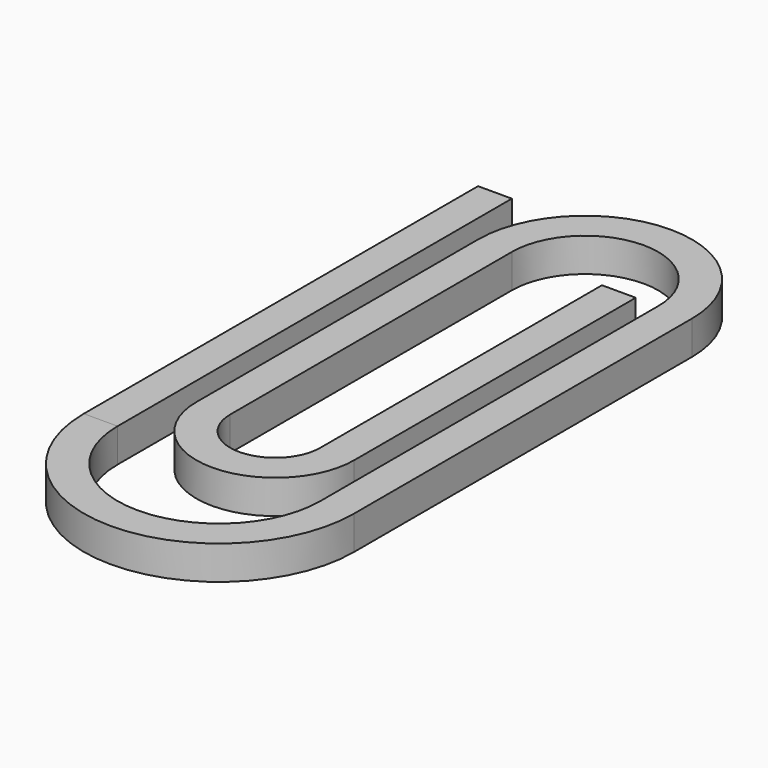
from build123d import *

# Parameters (mm, degrees)
F0_W      = 2.4
F0_H      = 2.4
F1_DEPTH  = 35
F2_W      = 2.4
F2_H      = 1.2
F3_ANGLE  = 180
F4_DEPTH  = 30
F5_W      = 2.4
F5_H      = 1.2
F6_ANGLE  = 180
F7_DEPTH  = 25
F8_W      = 2.4
F8_H      = 2.4
F9_ANGLE  = 180
F10_DEPTH = 25


with BuildPart() as f1:
    # F0 (on Front) → F1 (new body)
    with BuildSketch(Plane.XZ):
        with Locations((-30.2715206623, 1.2)):
            Rectangle(F0_W, F0_H)
    extrude(amount=F1_DEPTH)


with BuildPart() as f3:
    # F2 (on face) → F3 (revolve)
    with BuildSketch(Plane.XZ.offset(35)):
        with Locations((-30.2715206623, 1.8)):
            Rectangle(F2_W, F2_H)
        with Locations((-30.2715206623, 0.6)):
            Rectangle(F2_W, F2_H)
    revolve(axis=Axis((-21.8715206623, -35, 0.6), (0, 0, 1)), revolution_arc=F3_ANGLE)

    # F4 (add): a face of the model
    f4_faces = [f3.faces().sort_by_distance(p)[0] for p in [
        (-13.4715206623, -35, 1.2),
    ]]
    extrude(f4_faces, amount=F4_DEPTH)

    # F5 (on face) → F6 (revolve)
    with BuildSketch(Plane(origin=(0, -5, 0), x_dir=(-1, 0, 0), z_dir=(0, 1, 0))):
        with Locations((13.4715206623, 1.8)):
            Rectangle(F5_W, F5_H)
        with Locations((13.4715206623, 0.6)):
            Rectangle(F5_W, F5_H)
    revolve(axis=Axis((-19.8715206623, -5, 0.6), (0, 0, 1)), revolution_arc=F6_ANGLE)

    # F7 (add): a face of the model
    f7_faces = [f3.faces().sort_by_distance(p)[0] for p in [
        (-26.2715206623, -5, 1.2),
    ]]
    extrude(f7_faces, amount=F7_DEPTH)

    # F8 (on face) → F9 (revolve)
    with BuildSketch(Plane.XZ.offset(30)):
        with Locations((-26.2715206623, 1.2)):
            Rectangle(F8_W, F8_H)
    revolve(axis=Axis((-21.8715206623, -30, 1.8232566084), (0, 0, 1)), revolution_arc=F9_ANGLE)

    # F10 (add): a face of the model
    f10_faces = [f3.faces().sort_by_distance(p)[0] for p in [
        (-17.4715206623, -30, 1.2),
    ]]
    extrude(f10_faces, amount=F10_DEPTH)


solid = Compound([f1.part, f3.part])
